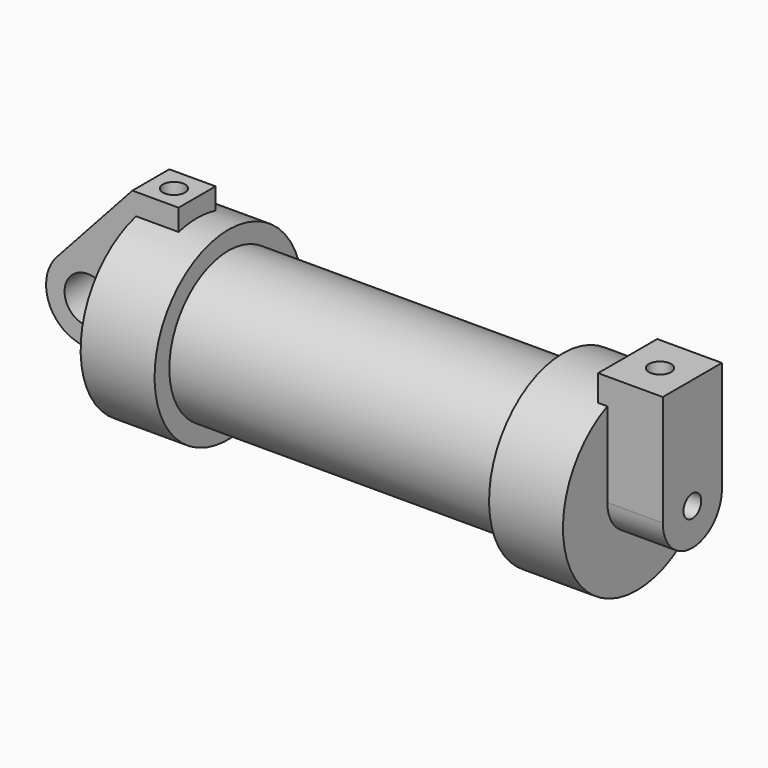
from build123d import *

# Parameters (mm, degrees)
F0_W     = 5.842
F0_H     = 12.7
F0_R     = 3.175
F2_DEPTH = 3.175
F3_R     = 1.524
F4_DEPTH = 7.62
F5_DEPTH = 1.27
F6_DEPTH = 56.134
F7_R     = 1.524
F8_DEPTH = 17.78
F9_DEPTH = 10.414


with BuildPart() as f1:
    # F0 (on Front) → F1 (revolve)
    with BuildSketch(Plane.XZ):
        with Locations((2.921, 6.35)):
            Rectangle(F0_W, F0_H)
        Polygon((5.842, 12.7), (5.842, 0), (66.294, 0), (66.294, 12.7), (56.134, 12.7), (56.134, 10.16), (10.16, 10.16), (10.16, 12.7), align=None)
    revolve(axis=Axis((33.147, 0, 0), (-1, 0, 0)))

    # F0 (on Front) → F2 (join, symmetric)
    with BuildSketch(Plane.XZ):
        with BuildLine():
            Line((-0.9398, 0), (0, 0))
            Line((0, 0), (0, 12.7))
            Line((0, 12.7), (5.842, 12.7))
            Line((5.842, 12.7), (5.842, 15.24))
            Line((5.842, 15.24), (-0.508, 15.24))
            Line((-0.508, 15.24), (-10.8806298187, 3.8475430269))
            ThreePointArc((-10.8806298187, 3.8475430269), (-4.5919612295, 5.3297205562), (-0.9398, 0))
        make_face()
        with BuildLine():
            ThreePointArc((-8.1826630726, -5.5069827884), (-3.1957909266, -4.5493385486), (-0.9398, 0))
            ThreePointArc((-0.9398, 0), (-4.5919612295, 5.3297205562), (-10.8806298187, 3.8475430269))
            ThreePointArc((-10.8806298187, 3.8475430269), (-12.1459778134, -1.5837270034), (-8.1826630726, -5.5069827884))
        make_face()
        with Locations((-6.6548, 0)):
            Circle(F0_R, mode=Mode.SUBTRACT)
        with BuildLine():
            Line((5.842, 0), (0, 0))
            Line((0, 0), (-0.9398, 0))
            ThreePointArc((-0.9398, 0), (-3.1957909266, -4.5493385486), (-8.1826630726, -5.5069827884))
            Line((-8.1826630726, -5.5069827884), (5.842, -9.398))
            Line((5.842, -9.398), (5.842, 0))
        make_face()
        with Locations((2.921, 6.35)):
            Rectangle(F0_W, F0_H)
    extrude(amount=F2_DEPTH, both=True)

    # F3 (on face) → F4 (join)
    with BuildSketch(Plane.YZ.offset(66.294)):
        with BuildLine():
            ThreePointArc((-5.08, 0), (0, -5.08), (5.08, 0))
            ThreePointArc((5.08, 0), (0, 5.08), (-5.08, 0))
        make_face()
        Circle(F3_R, mode=Mode.SUBTRACT)
        with BuildLine():
            ThreePointArc((-5.08, 0), (0, 5.08), (5.08, 0))
            Line((5.08, 0), (5.08, 11.6397422652))
            ThreePointArc((5.08, 11.6397422652), (0, 12.7), (-5.08, 11.6397422652))
            Line((-5.08, 11.6397422652), (-5.08, 0))
        make_face()
        with BuildLine():
            ThreePointArc((-5.08, 11.6397422652), (0, 12.7), (5.08, 11.6397422652))
            Line((5.08, 11.6397422652), (5.08, 15.24))
            Line((5.08, 15.24), (-5.08, 15.24))
            Line((-5.08, 15.24), (-5.08, 11.6397422652))
        make_face()
    extrude(amount=F4_DEPTH)

    # F5 (add): a face of the model
    f5_faces = [f1.faces().sort_by_distance(p)[0] for p in [
        (66.294, 0, 13.7792682875),
    ]]
    extrude(f5_faces, amount=F5_DEPTH)

    # F6 (cut, through all): a face of the model
    f6_faces = [f1.faces().sort_by_distance(p)[0] for p in [
        (66.294, 0, 0),
    ]]
    extrude(f6_faces, amount=-F6_DEPTH, mode=Mode.SUBTRACT)

    # F7 (on face) → F8 (cut)
    with BuildSketch(Plane.XY.offset(15.24)):
        with Locations((2.667, 0)):
            Circle(F7_R)
    extrude(amount=-F8_DEPTH, mode=Mode.SUBTRACT)

    # F7 (on face) → F9 (cut)
    with BuildSketch(Plane.XY.offset(15.24)):
        with Locations((69.469, 0)):
            Circle(F7_R)
    extrude(amount=-F9_DEPTH, mode=Mode.SUBTRACT)


solid = f1.part
